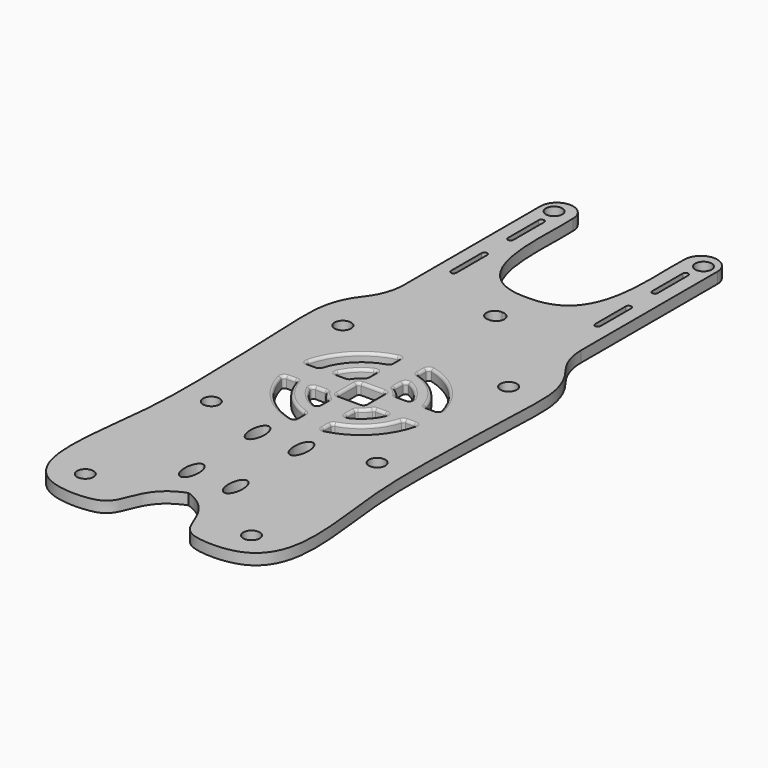
from build123d import *

# Parameters (mm, degrees)
F0_R     = 1.5
F1_DEPTH = 2
F2_R     = 0.5


with BuildPart() as f1:
    # F0 (on Top) → F1 (new body)
    with BuildSketch(Plane.XY):
        with BuildLine():
            ThreePointArc((18.3005848973, 23.7072913659), (16.7016313147, 26.6247175386), (16.1482299131, 29.9052319679))
            Line((16.1482299131, 29.9052319679), (16.1482299131, 61.0061858945))
            ThreePointArc((16.1482299131, 61.0061858945), (15.2396874881, 63.1569544111), (13.0643597717, 64.0050132986))
            ThreePointArc((13.0643597717, 64.0050132986), (10.9974613965, 63.0976434695), (10.1482299131, 61.0061858945))
            add(Edge.make_bspline(
                [(10.1482299131, 61.0061858945), (9.72773426, 53.6880753934), (12.6528367135, 37.4420739496), (0, 37.8444577729)],
                knots=[0, 0, 0, 0, 25.2873925099, 25.2873925099, 25.2873925099, 25.2873925099], degree=3))
            add(Edge.make_bspline(
                [(-10.1482299131, 61.0061858945), (-9.72773426, 53.6880753934), (-12.6528367135, 37.4420739496), (0, 37.8444577729)],
                knots=[0, 0, 0, 0, 25.2873925099, 25.2873925099, 25.2873925099, 25.2873925099], degree=3))
            ThreePointArc((-10.1482299131, 61.0061858945), (-10.9974613965, 63.0976434695), (-13.0643597717, 64.0050132986))
            ThreePointArc((-13.0643597717, 64.0050132986), (-15.2396874881, 63.1569544111), (-16.1482299131, 61.0061858945))
            Line((-16.1482299131, 61.0061858945), (-16.1482299131, 29.9052319679))
            ThreePointArc((-16.1482299131, 29.9052319679), (-16.7016313147, 26.6247175386), (-18.3005848973, 23.7072913659))
            add(Edge.make_bspline(
                [(-18.3005848973, 23.7072913659), (-21.6514711271, 19.4645005248), (-21.191341186, 9.8129982291), (-20.3904782414, -13.1517413372), (-20.8780847898, -25.1163458071), (-23.4582645603, -41.8170639082), (-18.8965169429, -49.5833744396), (-10.2755253742, -49.9263026077), (-5.7271710461, -48.0312552082), (-5.2401415937, -41.2391189989), (0, -39.3483377993)],
                knots=[0.0225156267, 0.0225156267, 0.0225156267, 0.0225156267, 0.1486922245, 0.3245263901, 0.4567049499, 0.6034734833, 0.7055235068, 0.8070179855, 0.8807593335, 1, 1, 1, 1], degree=3))
            add(Edge.make_bspline(
                [(18.3005848973, 23.7072913659), (21.6514711271, 19.4645005248), (21.191341186, 9.8129982291), (20.3904782414, -13.1517413372), (20.8780847898, -25.1163458071), (23.4582645603, -41.8170639082), (18.8965169429, -49.5833744396), (10.2755253742, -49.9263026077), (5.7271710461, -48.0312552082), (5.2401415937, -41.2391189989), (0, -39.3483377993)],
                knots=[0.0225156267, 0.0225156267, 0.0225156267, 0.0225156267, 0.1486922245, 0.3245263901, 0.4567049499, 0.6034734833, 0.7055235068, 0.8070179855, 0.8807593335, 1, 1, 1, 1], degree=3))
        make_face()
        with Locations((-15.1580347, -43.9702504203)):
            Circle(F0_R, mode=Mode.SUBTRACT)
        with BuildLine():
            add(Edge.make_bspline(
                [(-4, -36.1384255201), (-1.8349364905, -36.1384255201), (-2.9174682453, -32.3884255201), (-4, -28.6384255201), (-5.0825317547, -32.3884255201), (-6.1650635095, -36.1384255201), (-4, -36.1384255201)],
                knots=[0, 0, 0, 2.0943951024, 2.0943951024, 4.1887902048, 4.1887902048, 6.2831853072, 6.2831853072, 6.2831853072], degree=2, weights=[1, 0.5, 1, 0.5, 1, 0.5, 1]))
        make_face(mode=Mode.SUBTRACT)
        with Locations((-15.1254812009, -15.2917730766)):
            Circle(F0_R, mode=Mode.SUBTRACT)
        with BuildLine():
            Line((-2.5, -10.0568979908), (-2.5, -11.6283105224))
            ThreePointArc((-2.5, -11.6283105224), (-2.6908502542, -12.0177431383), (-3.1155610177, -12.1055061664))
            ThreePointArc((-3.1155610177, -12.1055061664), (-8.8388347648, -8.8388347648), (-12.1055061664, -3.1155610177))
            ThreePointArc((-12.1055061664, -3.1155610177), (-12.0177431383, -2.6908502542), (-11.6283105224, -2.5))
            Line((-11.6283105224, -2.5), (-10.0568979908, -2.5))
            ThreePointArc((-10.0568979908, -2.5), (-9.7623238807, -2.597746243), (-9.5846192512, -2.8522050786))
            ThreePointArc((-9.5846192512, -2.8522050786), (-7.0710678119, -7.0710678119), (-2.8522050786, -9.5846192512))
            ThreePointArc((-2.8522050786, -9.5846192512), (-2.597746243, -9.7623238807), (-2.5, -10.0568979908))
        make_face(mode=Mode.SUBTRACT)
        with BuildLine():
            add(Edge.make_bspline(
                [(-4, -21.1384255201), (-1.8349364905, -21.1384255201), (-2.9174682453, -17.3884255201), (-4, -13.6384255201), (-5.0825317547, -17.3884255201), (-6.1650635095, -21.1384255201), (-4, -21.1384255201)],
                knots=[0, 0, 0, 2.0943951024, 2.0943951024, 4.1887902048, 4.1887902048, 6.2831853072, 6.2831853072, 6.2831853072], degree=2, weights=[1, 0.5, 1, 0.5, 1, 0.5, 1]))
        make_face(mode=Mode.SUBTRACT)
        with BuildLine():
            ThreePointArc((-3.20319488, -6.7815590067), (-5.3033008589, -5.3033008589), (-6.7815590067, -3.20319488))
            ThreePointArc((-6.7815590067, -3.20319488), (-6.7522449497, -2.729021827), (-6.3360137629, -2.5))
            Line((-6.3360137629, -2.5), (-4.6058367751, -2.5))
            ThreePointArc((-4.6058367751, -2.5), (-4.3707740538, -2.5596822693), (-4.1926537043, -2.7242714467))
            ThreePointArc((-4.1926537043, -2.7242714467), (-3.5355339059, -3.5355339059), (-2.7242714467, -4.1926537043))
            ThreePointArc((-2.7242714467, -4.1926537043), (-2.5596822693, -4.3707740538), (-2.5, -4.6058367751))
            Line((-2.5, -4.6058367751), (-2.5, -6.3360137629))
            ThreePointArc((-2.5, -6.3360137629), (-2.729021827, -6.7522449497), (-3.20319488, -6.7815590067))
        make_face(mode=Mode.SUBTRACT)
        with BuildLine():
            ThreePointArc((-2.5, 4.6058367751), (-2.5596822693, 4.3707740538), (-2.7242714467, 4.1926537043))
            ThreePointArc((-2.7242714467, 4.1926537043), (-3.5355339059, 3.5355339059), (-4.1926537043, 2.7242714467))
            ThreePointArc((-4.1926537043, 2.7242714467), (-4.3707740538, 2.5596822693), (-4.6058367751, 2.5))
            Line((-4.6058367751, 2.5), (-6.3360137629, 2.5))
            ThreePointArc((-6.3360137629, 2.5), (-6.7522449497, 2.729021827), (-6.7815590067, 3.20319488))
            ThreePointArc((-6.7815590067, 3.20319488), (-5.3033008589, 5.3033008589), (-3.20319488, 6.7815590067))
            ThreePointArc((-3.20319488, 6.7815590067), (-2.729021827, 6.7522449497), (-2.5, 6.3360137629))
            Line((-2.5, 6.3360137629), (-2.5, 4.6058367751))
        make_face(mode=Mode.SUBTRACT)
        with BuildLine():
            add(Edge.make_bspline(
                [(4, -36.1384255201), (6.1650635095, -36.1384255201), (5.0825317547, -32.3884255201), (4, -28.6384255201), (2.9174682453, -32.3884255201), (1.8349364905, -36.1384255201), (4, -36.1384255201)],
                knots=[0, 0, 0, 2.0943951024, 2.0943951024, 4.1887902048, 4.1887902048, 6.2831853072, 6.2831853072, 6.2831853072], degree=2, weights=[1, 0.5, 1, 0.5, 1, 0.5, 1]))
        make_face(mode=Mode.SUBTRACT)
        with Locations((15.1580347, -43.9702504203)):
            Circle(F0_R, mode=Mode.SUBTRACT)
        with BuildLine():
            add(Edge.make_bspline(
                [(4, -21.1384255201), (6.1650635095, -21.1384255201), (5.0825317547, -17.3884255201), (4, -13.6384255201), (2.9174682453, -17.3884255201), (1.8349364905, -21.1384255201), (4, -21.1384255201)],
                knots=[0, 0, 0, 2.0943951024, 2.0943951024, 4.1887902048, 4.1887902048, 6.2831853072, 6.2831853072, 6.2831853072], degree=2, weights=[1, 0.5, 1, 0.5, 1, 0.5, 1]))
        make_face(mode=Mode.SUBTRACT)
        with BuildLine():
            ThreePointArc((3.1155610177, -12.1055061664), (2.6908502542, -12.0177431383), (2.5, -11.6283105224))
            Line((2.5, -11.6283105224), (2.5, -10.0568979908))
            ThreePointArc((2.5, -10.0568979908), (2.597746243, -9.7623238807), (2.8522050786, -9.5846192512))
            ThreePointArc((2.8522050786, -9.5846192512), (7.0710678119, -7.0710678119), (9.5846192512, -2.8522050786))
            ThreePointArc((9.5846192512, -2.8522050786), (9.7623238807, -2.597746243), (10.0568979908, -2.5))
            Line((10.0568979908, -2.5), (11.6283105224, -2.5))
            ThreePointArc((11.6283105224, -2.5), (12.0177431383, -2.6908502542), (12.1055061664, -3.1155610177))
            ThreePointArc((12.1055061664, -3.1155610177), (8.8388347648, -8.8388347648), (3.1155610177, -12.1055061664))
        make_face(mode=Mode.SUBTRACT)
        with BuildLine():
            ThreePointArc((2.5, -4.6058367751), (2.5596822693, -4.3707740538), (2.7242714467, -4.1926537043))
            ThreePointArc((2.7242714467, -4.1926537043), (3.5355339059, -3.5355339059), (4.1926537043, -2.7242714467))
            ThreePointArc((4.1926537043, -2.7242714467), (4.3707740538, -2.5596822693), (4.6058367751, -2.5))
            Line((4.6058367751, -2.5), (6.3360137629, -2.5))
            ThreePointArc((6.3360137629, -2.5), (6.7522449497, -2.729021827), (6.7815590067, -3.20319488))
            ThreePointArc((6.7815590067, -3.20319488), (5.3033008589, -5.3033008589), (3.20319488, -6.7815590067))
            ThreePointArc((3.20319488, -6.7815590067), (2.729021827, -6.7522449497), (2.5, -6.3360137629))
            Line((2.5, -6.3360137629), (2.5, -4.6058367751))
        make_face(mode=Mode.SUBTRACT)
        with BuildLine():
            ThreePointArc((-2.0072535202, -2.5), (-2.3556778975, -2.3556778975), (-2.5, -2.0072535202))
            Line((-2.5, -2.0072535202), (-2.5, 2.0072535202))
            ThreePointArc((-2.5, 2.0072535202), (-2.3556778975, 2.3556778975), (-2.0072535202, 2.5))
            Line((-2.0072535202, 2.5), (2.0072535202, 2.5))
            ThreePointArc((2.0072535202, 2.5), (2.3556778975, 2.3556778975), (2.5, 2.0072535202))
            Line((2.5, 2.0072535202), (2.5, -2.0072535202))
            ThreePointArc((2.5, -2.0072535202), (2.3556778975, -2.3556778975), (2.0072535202, -2.5))
            Line((2.0072535202, -2.5), (-2.0072535202, -2.5))
        make_face(mode=Mode.SUBTRACT)
        with BuildLine():
            ThreePointArc((2.7242714467, 4.1926537043), (2.5596822693, 4.3707740538), (2.5, 4.6058367751))
            Line((2.5, 4.6058367751), (2.5, 6.3360137629))
            ThreePointArc((2.5, 6.3360137629), (2.729021827, 6.7522449497), (3.20319488, 6.7815590067))
            ThreePointArc((3.20319488, 6.7815590067), (5.3033008589, 5.3033008589), (6.7815590067, 3.20319488))
            ThreePointArc((6.7815590067, 3.20319488), (6.7522449497, 2.729021827), (6.3360137629, 2.5))
            Line((6.3360137629, 2.5), (4.6058367751, 2.5))
            ThreePointArc((4.6058367751, 2.5), (4.3707740538, 2.5596822693), (4.1926537043, 2.7242714467))
            ThreePointArc((4.1926537043, 2.7242714467), (3.5355339059, 3.5355339059), (2.7242714467, 4.1926537043))
        make_face(mode=Mode.SUBTRACT)
        with Locations((15.1254812009, -15.2917730766)):
            Circle(F0_R, mode=Mode.SUBTRACT)
        with Locations((-15.1254812009, 14.7082269234)):
            Circle(F0_R, mode=Mode.SUBTRACT)
        with BuildLine():
            ThreePointArc((-2.5, 10.0568979908), (-2.597746243, 9.7623238807), (-2.8522050786, 9.5846192512))
            ThreePointArc((-2.8522050786, 9.5846192512), (-7.0710678119, 7.0710678119), (-9.5846192512, 2.8522050786))
            ThreePointArc((-9.5846192512, 2.8522050786), (-9.7623238807, 2.597746243), (-10.0568979908, 2.5))
            Line((-10.0568979908, 2.5), (-11.6283105224, 2.5))
            ThreePointArc((-11.6283105224, 2.5), (-12.0177431383, 2.6908502542), (-12.1055061664, 3.1155610177))
            ThreePointArc((-12.1055061664, 3.1155610177), (-8.8388347648, 8.8388347648), (-3.1155610177, 12.1055061664))
            ThreePointArc((-3.1155610177, 12.1055061664), (-2.6908502542, 12.0177431383), (-2.5, 11.6283105224))
            Line((-2.5, 11.6283105224), (-2.5, 10.0568979908))
        make_face(mode=Mode.SUBTRACT)
        with BuildLine():
            Line((-12.6528367135, 44.4420739496), (-12.6528367135, 37.5775077376))
            ThreePointArc((-12.6528367135, 37.5775077376), (-12.6482299131, 37.5097908436), (-12.6528367135, 37.4420739496))
            ThreePointArc((-12.6528367135, 37.4420739496), (-13.1821666202, 37.0109438732), (-13.6482299131, 37.5097908436))
            Line((-13.6482299131, 37.5097908436), (-13.6482299131, 44.5097908436))
            ThreePointArc((-13.6482299131, 44.5097908436), (-13.1821666202, 45.008637814), (-12.6528367135, 44.5775077376))
            ThreePointArc((-12.6528367135, 44.5775077376), (-12.6482299131, 44.5097908436), (-12.6528367135, 44.4420739496))
        make_face(mode=Mode.SUBTRACT)
        with BuildLine():
            Line((-12.6528367135, 57.4384690005), (-12.6528367135, 50.5739027885))
            ThreePointArc((-12.6528367135, 50.5739027885), (-12.6482299131, 50.5061858945), (-12.6528367135, 50.4384690005))
            ThreePointArc((-12.6528367135, 50.4384690005), (-13.1821666202, 50.0073389241), (-13.6482299131, 50.5061858945))
            Line((-13.6482299131, 50.5061858945), (-13.6482299131, 57.5061858945))
            ThreePointArc((-13.6482299131, 57.5061858945), (-13.1821666202, 58.0050328649), (-12.6528367135, 57.5739027885))
            ThreePointArc((-12.6528367135, 57.5739027885), (-12.6482299131, 57.5061858945), (-12.6528367135, 57.4384690005))
        make_face(mode=Mode.SUBTRACT)
        with Locations((-13.6254812009, 61.0061858945)):
            Circle(F0_R, mode=Mode.SUBTRACT)
        with BuildLine():
            ThreePointArc((12.1055061664, 3.1155610177), (12.0177431383, 2.6908502542), (11.6283105224, 2.5))
            Line((11.6283105224, 2.5), (10.0568979908, 2.5))
            ThreePointArc((10.0568979908, 2.5), (9.7623238807, 2.597746243), (9.5846192512, 2.8522050786))
            ThreePointArc((9.5846192512, 2.8522050786), (7.0710678119, 7.0710678119), (2.8522050786, 9.5846192512))
            ThreePointArc((2.8522050786, 9.5846192512), (2.597746243, 9.7623238807), (2.5, 10.0568979908))
            Line((2.5, 10.0568979908), (2.5, 11.6283105224))
            ThreePointArc((2.5, 11.6283105224), (2.6908502542, 12.0177431383), (3.1155610177, 12.1055061664))
            ThreePointArc((3.1155610177, 12.1055061664), (8.8388347648, 8.8388347648), (12.1055061664, 3.1155610177))
        make_face(mode=Mode.SUBTRACT)
        with BuildLine():
            ThreePointArc((0, 32.0705439347), (1.1408082907, 31.6799352119), (1.6254812009, 30.5758016598))
            ThreePointArc((1.6254812009, 30.5758016598), (1.1408082907, 29.4716681078), (0, 29.081059385))
            ThreePointArc((0, 29.081059385), (-1.6254812009, 30.5758016598), (0, 32.0705439347))
        make_face(mode=Mode.SUBTRACT)
        with Locations((15.1254812009, 14.7082269234)):
            Circle(F0_R, mode=Mode.SUBTRACT)
        with BuildLine():
            ThreePointArc((12.6528367135, 37.4420739496), (12.6482299131, 37.5097908436), (12.6528367135, 37.5775077376))
            Line((12.6528367135, 37.5775077376), (12.6528367135, 44.4420739496))
            ThreePointArc((12.6528367135, 44.4420739496), (12.6482299131, 44.5097908436), (12.6528367135, 44.5775077376))
            ThreePointArc((12.6528367135, 44.5775077376), (13.1821666202, 45.008637814), (13.6482299131, 44.5097908436))
            Line((13.6482299131, 44.5097908436), (13.6482299131, 37.5097908436))
            ThreePointArc((13.6482299131, 37.5097908436), (13.1821666202, 37.0109438732), (12.6528367135, 37.4420739496))
        make_face(mode=Mode.SUBTRACT)
        with BuildLine():
            ThreePointArc((12.6528367135, 57.5739027885), (13.1821666202, 58.0050328649), (13.6482299131, 57.5061858945))
            Line((13.6482299131, 57.5061858945), (13.6482299131, 50.5061858945))
            ThreePointArc((13.6482299131, 50.5061858945), (13.1821666202, 50.0073389241), (12.6528367135, 50.4384690005))
            ThreePointArc((12.6528367135, 50.4384690005), (12.6482299131, 50.5061858945), (12.6528367135, 50.5739027885))
            Line((12.6528367135, 50.5739027885), (12.6528367135, 57.4384690005))
            ThreePointArc((12.6528367135, 57.4384690005), (12.6482299131, 57.5061858945), (12.6528367135, 57.5739027885))
        make_face(mode=Mode.SUBTRACT)
        with Locations((13.6254812009, 61.0061858945)):
            Circle(F0_R, mode=Mode.SUBTRACT)
    extrude(amount=F1_DEPTH)

    # F2
    f2_edges = [f1.edges().sort_by_distance(p)[0] for p in [
        (-8.838835, 8.838835, 2),
        (-2.69085, 12.017743, 2),
        (-5.303301, 5.303301, 2),
        (-7.071068, -7.071068, 2),
        (-3.535534, -3.535534, 2),
        (0, 2.5, 2),
        (5.303301, 5.303301, 2),
        (8.838835, 8.838835, 2),
        (5.303301, -5.303301, 2),
        (8.838835, -8.838835, 2),
    ]]
    fillet(f2_edges, radius=F2_R)


solid = f1.part
